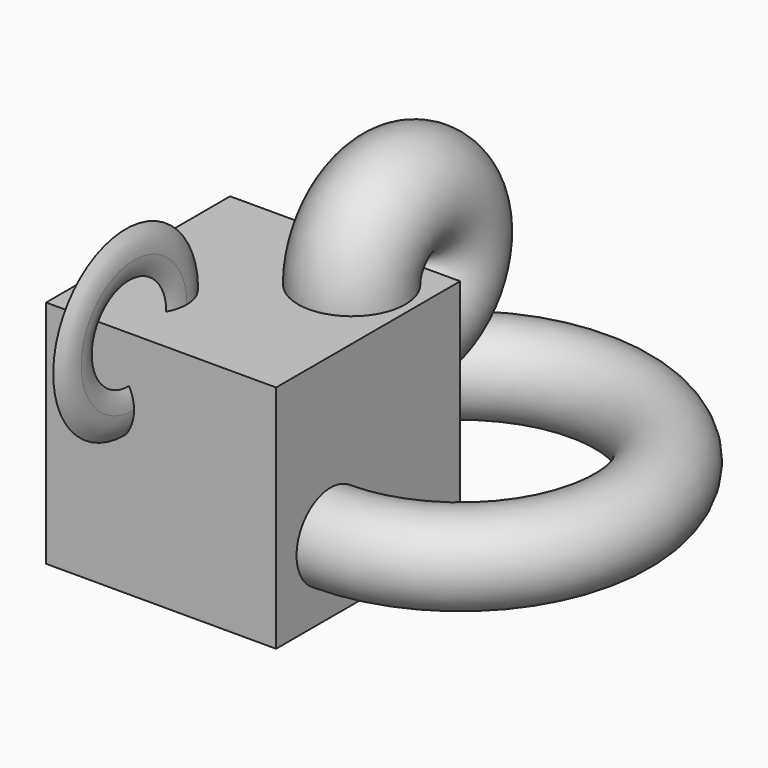
from build123d import *

# Parameters (mm, degrees)
F0_W     = 76.2
F0_H     = 76.2
F1_DEPTH = 76.2
F2_R     = 13.3290847302
F4_R     = 17.78
F6_R     = 22.86
F9_R     = 14.0969951111


with BuildPart() as f1:
    # F0 (on Front) → F1 (new body)
    with BuildSketch(Plane.XZ):
        with Locations((38.1, 38.1)):
            Rectangle(F0_W, F0_H)
    extrude(amount=F1_DEPTH)

    # F9 (on face) → F10 (revolve)
    with BuildSketch(Plane.YZ.offset(76.2)):
        with Locations((-53.6454692483, 23.7518046051)):
            Circle(F9_R)
    revolve(axis=Axis((76.2, 0, 38.1), (0, 0, 1)))


with BuildPart() as f3:
    # F2 (on face) → F3 (revolve)
    with BuildSketch(Plane.XZ.offset(76.2)):
        with Locations((15.8059280366, 54.3315932155)):
            Circle(F2_R)
    revolve(axis=Axis((38.1, -76.2, 76.2), (1, 0, 0)))


with BuildPart() as f5:
    # F4 (on face) → F5 (revolve)
    with BuildSketch(Plane(origin=(0, 0, 0), x_dir=(-1, 0, 0), z_dir=(0, 1, 0))):
        with Locations((-55.4519928992, 57.1869499981)):
            Circle(F4_R)
    revolve(axis=Axis((38.1, 0, 76.2), (1, 0, 0)))


with BuildPart() as f7:
    # F6 (on face) → F7 (revolve)
    with BuildSketch(Plane.XZ.offset(76.2)):
        with Locations((48.517961055, 51.851965487)):
            Circle(F6_R)
    revolve(axis=Axis((38.1, -76.2, 76.2), (1, 0, 0)))

    # F8: intersect F3
    add(f3.part, mode=Mode.INTERSECT)


solid = Compound([f1.part, f5.part, f7.part])
